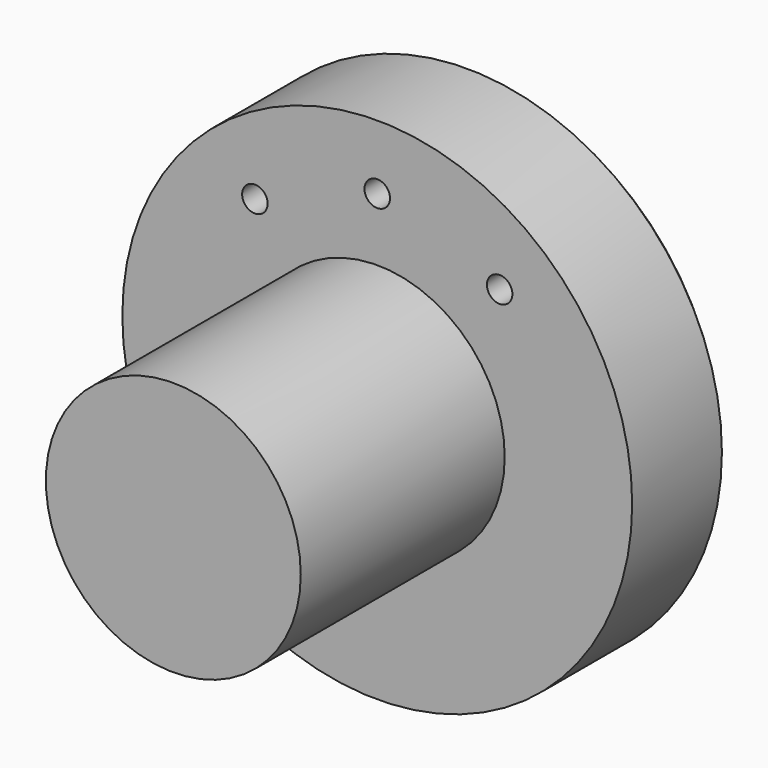
from build123d import *

# Parameters (mm, degrees)
F0_R     = 6
F1_DEPTH = 3
F0_R_2   = 12.5
F2_DEPTH = 37
F0_R_3   = 25
F0_R_4   = 1.25
F3_DEPTH = 12
F4_DEPTH = 37
F5_SIZE  = 1


with BuildPart() as f1:
    # F0 (on Front) → F1 (new body)
    with BuildSketch(Plane.XZ):
        Circle(F0_R)
    extrude(amount=-F1_DEPTH)



with BuildPart() as f2:
    # F0 (on Front) → F2 (new body)
    with BuildSketch(Plane.XZ):
        Circle(F0_R_2)
        Circle(F0_R, mode=Mode.SUBTRACT)
    extrude(amount=F2_DEPTH)

    # F0 (on Front) → F3 (join)
    with BuildSketch(Plane.XZ):
        Circle(F0_R_3)
        with Locations((-12.000845, 14.30205)):
            Circle(F0_R_4, mode=Mode.SUBTRACT)
        Circle(F0_R_2, mode=Mode.SUBTRACT)
        with Locations((0, 18.67)):
            Circle(F0_R_4, mode=Mode.SUBTRACT)
        with Locations((12.000845, 14.30205)):
            Circle(F0_R_4, mode=Mode.SUBTRACT)
    extrude(amount=F3_DEPTH)


with BuildPart() as f1_1:
    add(f1.part)

    add(f2.part)  # F4 merges F2
    # F0 (on Front) → F4 (join)
    with BuildSketch(Plane.XZ):
        Circle(F0_R)
    extrude(amount=F4_DEPTH)

    # F5
    f5_edges = [f1_1.edges().sort_by_distance(p)[0] for p in [
        (-25, 0, 0),
        (-6, 3, 0),
    ]]
    chamfer(f5_edges, length=F5_SIZE)


solid = f1_1.part
